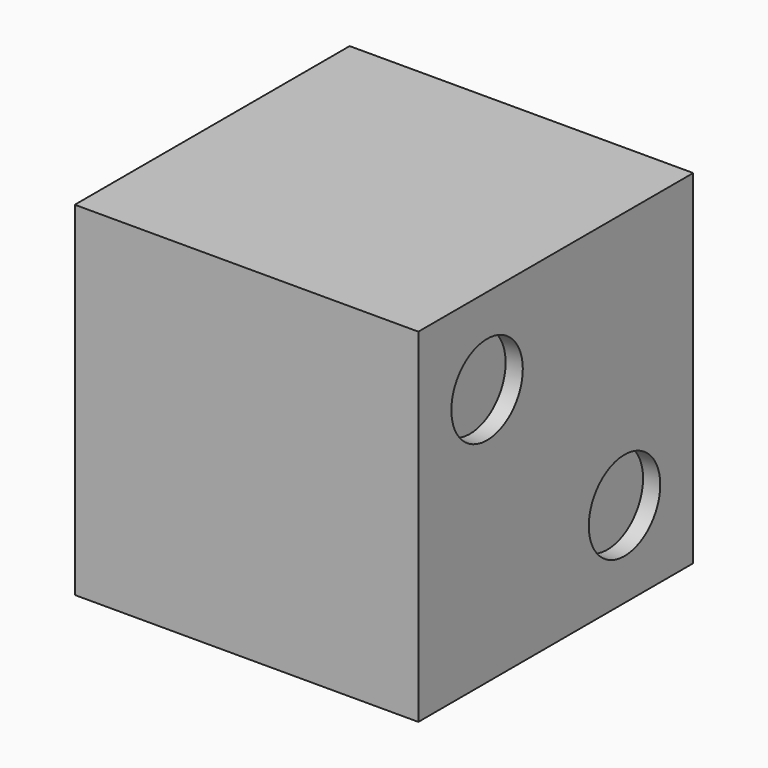
from build123d import *

# Parameters (mm, degrees)
F0_W     = 20
F0_H     = 20
F1_DEPTH = 20
F2_R     = 2.6
F3_DEPTH = 1
F4_R     = 2.6
F5_DEPTH = 1
F6_R     = 2.6
F7_DEPTH = 1


with BuildPart() as f1:
    # F0 (on Front) → F1 (new body)
    with BuildSketch(Plane.XZ):
        with Locations((10, 10)):
            Rectangle(F0_W, F0_H)
    extrude(amount=F1_DEPTH)

    # F2 (on face) → F3 (cut)
    with BuildSketch(Plane(origin=(0, 0, 0), x_dir=(0, -1, 0), z_dir=(-1, 0, 0))):
        with Locations((10, 10)):
            Circle(F2_R)
        with Locations((5, 15)):
            Circle(F2_R)
        with Locations((15, 15)):
            Circle(F2_R)
        with Locations((15, 5)):
            Circle(F2_R)
        with Locations((5, 5)):
            Circle(F2_R)
    extrude(amount=-F3_DEPTH, mode=Mode.SUBTRACT)

    # F4 (on face) → F5 (cut)
    with BuildSketch(Plane.YZ.offset(20)):
        with Locations((-15, 15)):
            Circle(F4_R)
        with Locations((-5, 5)):
            Circle(F4_R)
    extrude(amount=-F5_DEPTH, mode=Mode.SUBTRACT)

    # F6 (on face) → F7 (cut)
    with BuildSketch(Plane(origin=(0, 0, 0), x_dir=(-1, 0, 0), z_dir=(0, 1, 0))):
        with Locations((-10, 10)):
            Circle(F6_R)
        with Locations((-5, 15)):
            Circle(F6_R)
        with Locations((-15, 5)):
            Circle(F6_R)
    extrude(amount=-F7_DEPTH, mode=Mode.SUBTRACT)


solid = f1.part
